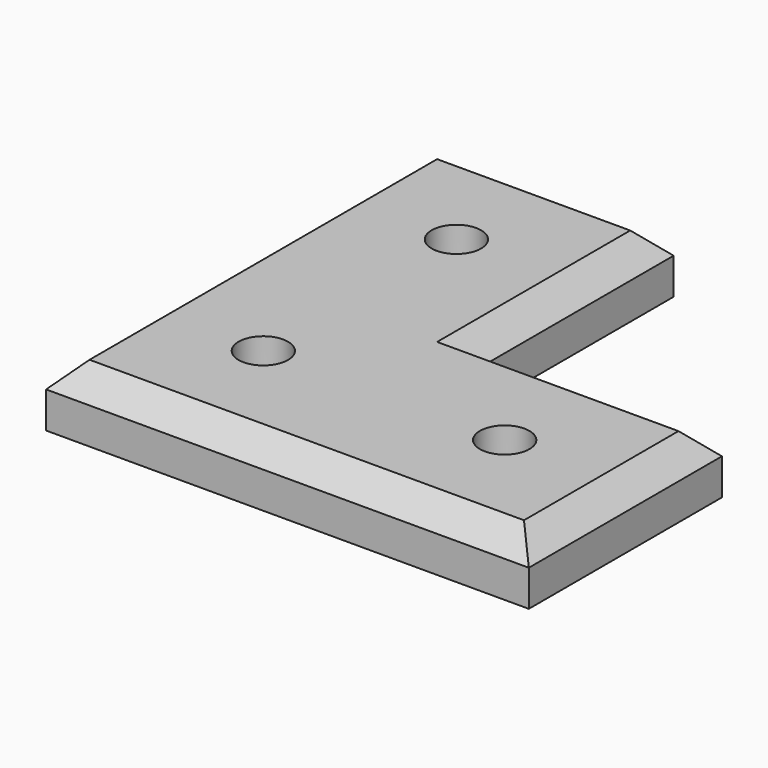
from build123d import *

# Parameters (mm, degrees)
SKETCH_R      = 2.05
EXTRUDE_DEPTH = 5
CHAMFER_SIZE  = 2


with BuildPart() as part:
    # Sketch → Extrude (new body)
    with BuildSketch(Plane.XY):
        Polygon((0, 0), (0, 40), (20, 40), (20, 20), (40, 20), (40, 0), align=None)
        with Locations((10, 10)):
            Circle(SKETCH_R, mode=Mode.SUBTRACT)
        with Locations((30, 10)):
            Circle(SKETCH_R, mode=Mode.SUBTRACT)
        with Locations((10, 30)):
            Circle(SKETCH_R, mode=Mode.SUBTRACT)
    extrude(amount=EXTRUDE_DEPTH)

    # Chamfer
    chamfer_edges = [part.edges().sort_by_distance(p)[0] for p in [
        (0, 20, 5),
        (10, 40, 5),
        (20, 30, 5),
        (30, 20, 5),
        (40, 10, 5),
        (20, 0, 5),
    ]]
    chamfer(chamfer_edges, length=CHAMFER_SIZE)


solid = part.part
